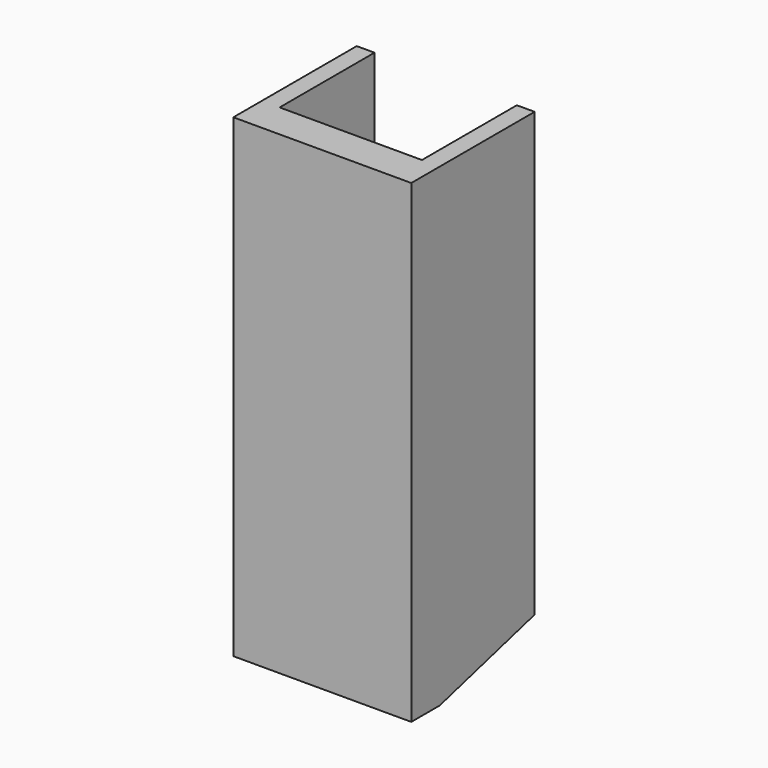
from build123d import *

# Parameters (mm, degrees)
F0_W     = 30.48
F0_H     = 101.6
F0_W_2   = 3.81
F1_DEPTH = 7.62
F2_DEPTH = 25.4
F4_DEPTH = 50.8


with BuildPart() as f1:
    # F0 (on Front) → F1 (new body)
    with BuildSketch(Plane.XZ):
        with Locations((-22.118616, 31.387416)):
            Rectangle(F0_W, F0_H)
        with Locations((-39.263616, 31.387416)):
            Rectangle(F0_W_2, F0_H)
        with Locations((-4.973616, 31.387416)):
            Rectangle(F0_W_2, F0_H)
    extrude(amount=F1_DEPTH)

    # F0 (on Front) → F2 (join)
    with BuildSketch(Plane.XZ):
        with Locations((-4.973616, 31.387416)):
            Rectangle(F0_W_2, F0_H)
        with Locations((-39.263616, 31.387416)):
            Rectangle(F0_W_2, F0_H)
    extrude(amount=-F2_DEPTH)

    # F3 (on face) → F4 (cut)
    with BuildSketch(Plane.YZ.offset(-3.068616)):
        Polygon((25.4, -19.412584), (25.4, -12.606675), (0, -19.412584), align=None)
    extrude(amount=-F4_DEPTH, mode=Mode.SUBTRACT)


solid = f1.part
